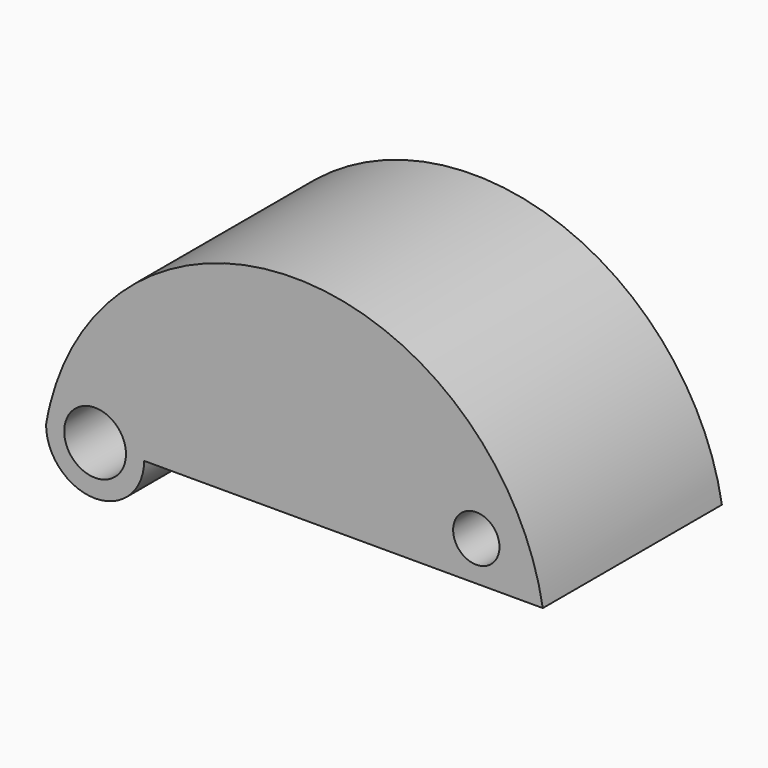
from build123d import *

# Parameters (mm, degrees)
F0_R     = 1.5
F1_DEPTH = 14.5
F0_R_2   = 2
F2_DEPTH = 14.5


with BuildPart() as f1:
    # F0 (on Front) → F1 (new body)
    with BuildSketch(Plane.XZ):
        with BuildLine():
            ThreePointArc((-2.9066747097, 1.2774455495), (0.6526610133, 3.1071946514), (3.175, 0))
            Line((3.175, 0), (29, 0))
            ThreePointArc((29, 0), (13.5651610133, 13.5892229178), (-2.9066747097, 1.2774455495))
        make_face()
        with Locations((24.690752849, 2.5710954797)):
            Circle(F0_R, mode=Mode.SUBTRACT)
    extrude(amount=F1_DEPTH)

    # F0 (on Front) → F2 (join)
    with BuildSketch(Plane.XZ):
        with BuildLine():
            ThreePointArc((-2.9066747097, 1.2774455495), (0.6526610133, 3.1071946514), (3.175, 0))
            Line((3.175, 0), (29, 0))
            ThreePointArc((29, 0), (13.5651610133, 13.5892229178), (-2.9066747097, 1.2774455495))
        make_face()
        with Locations((24.690752849, 2.5710954797)):
            Circle(F0_R, mode=Mode.SUBTRACT)
        with BuildLine():
            ThreePointArc((-3.175, 0), (0, -3.175), (3.175, 0))
            ThreePointArc((3.175, 0), (0.6526610133, 3.1071946514), (-2.9066747097, 1.2774455495))
            ThreePointArc((-2.9066747097, 1.2774455495), (-3.053618487, 0.6414074301), (-3.175, 0))
        make_face()
        Circle(F0_R_2, mode=Mode.SUBTRACT)
    extrude(amount=F2_DEPTH)


solid = f1.part
